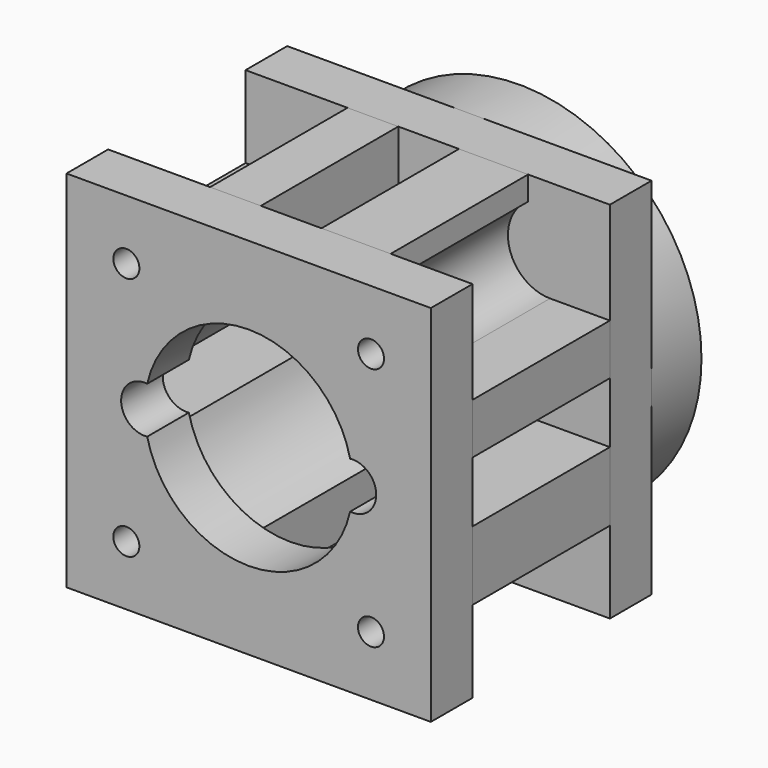
from build123d import *

# Parameters (mm, degrees)
F0_R      = 5
F0_R_2    = 3
F1_DEPTH  = 7
F2_R      = 35
F2_R_2    = 32.1
F3_DEPTH  = 12
F4_W      = 70
F4_H      = 70
F4_R      = 3
F4_R_2    = 11
F5_DEPTH  = 10
F7_R      = 5
F8_DEPTH  = 5
F10_W     = 70
F10_H     = 70
F10_R     = 2.5
F11_DEPTH = 10
F13_DEPTH = 33


with BuildPart() as f1:
    # F0 (on Front) → F1 (new body)
    with BuildSketch(Plane.XZ):
        with Locations((-20, 0)):
            Circle(F0_R)
        with Locations((-20, 0)):
            Circle(F0_R_2, mode=Mode.SUBTRACT)
        with Locations((20, 0)):
            Circle(F0_R)
        with Locations((20, 0)):
            Circle(F0_R_2, mode=Mode.SUBTRACT)
    extrude(amount=-F1_DEPTH)


with BuildPart() as f3:
    # F2 (on Front) → F3 (new body)
    with BuildSketch(Plane.XZ):
        Circle(F2_R)
        Circle(F2_R_2, mode=Mode.SUBTRACT)
    extrude(amount=-F3_DEPTH)


with BuildPart() as f5:
    # F4 (on Front) → F5 (new body)
    with BuildSketch(Plane.XZ):
        Rectangle(F4_W, F4_H)
        with Locations((-20, 0)):
            Circle(F4_R, mode=Mode.SUBTRACT)
        Circle(F4_R_2, mode=Mode.SUBTRACT)
        with Locations((20, 0)):
            Circle(F4_R, mode=Mode.SUBTRACT)
    extrude(amount=F5_DEPTH)

    # F7 (on offset) → F8 (cut)
    with BuildSketch(Plane.XZ.offset(10)):
        with Locations((-20, 0)):
            Circle(F7_R)
        with Locations((20, 0)):
            Circle(F7_R)
    extrude(amount=-F8_DEPTH, mode=Mode.SUBTRACT)


with BuildPart() as f11:
    # F10 (on offset) → F11 (new body)
    with BuildSketch(Plane.XZ.offset(53)):
        Rectangle(F10_W, F10_H)
        with Locations((-23.5, -23.5)):
            Circle(F10_R, mode=Mode.SUBTRACT)
        with Locations((23.5, -23.5)):
            Circle(F10_R, mode=Mode.SUBTRACT)
        with Locations((-23.5, 23.5)):
            Circle(F10_R, mode=Mode.SUBTRACT)
        with BuildLine():
            ThreePointArc((-19.49375, 4.471433), (0, 20), (19.49375, 4.471433))
            ThreePointArc((19.49375, 4.471433), (22.997655, 3.356198), (24.5, 0))
            ThreePointArc((24.5, 0), (22.997655, -3.356198), (19.49375, -4.471433))
            ThreePointArc((19.49375, -4.471433), (0, -20), (-19.49375, -4.471433))
            ThreePointArc((-19.49375, -4.471433), (-24.5, 0), (-19.49375, 4.471433))
        make_face(mode=Mode.SUBTRACT)
        with Locations((23.5, 23.5)):
            Circle(F10_R, mode=Mode.SUBTRACT)
    extrude(amount=-F11_DEPTH)


with BuildPart() as f13:
    # F12 (on offset) → F13 (new body)
    with BuildSketch(Plane.XZ.offset(10)):
        with BuildLine():
            Line((-35, 19.283103), (-35, 6))
            Line((-35, 6), (-20, 6))
            ThreePointArc((-20, 6), (-14.708285, 14.926632), (-5.655774, 20))
            Line((-5.655774, 20), (-5.655774, 35))
            Line((-5.655774, 35), (-15.405774, 35))
            Line((-15.405774, 35), (-15.405774, 23.5))
            ThreePointArc((-15.405774, 23.5), (-21.309853, 15.707712), (-30.409, 19.283103))
            Line((-30.409, 19.283103), (-35, 19.283103))
        make_face()
        with BuildLine():
            Line((-20, -5.655774), (-35, -5.655774))
            Line((-35, -5.655774), (-35, -15.405774))
            Line((-35, -15.405774), (-23.5, -15.405774))
            ThreePointArc((-23.5, -15.405774), (-15.707712, -21.309853), (-19.283103, -30.409))
            Line((-19.283103, -30.409), (-19.283103, -35))
            Line((-19.283103, -35), (-6, -35))
            Line((-6, -35), (-6, -20))
            ThreePointArc((-6, -20), (-14.926632, -14.708285), (-20, -5.655774))
        make_face()
        with BuildLine():
            Line((5.655774, -20), (5.655774, -35))
            Line((5.655774, -35), (15.405774, -35))
            Line((15.405774, -35), (15.405774, -23.5))
            ThreePointArc((15.405774, -23.5), (21.309853, -15.707712), (30.409, -19.283103))
            Line((30.409, -19.283103), (35, -19.283103))
            Line((35, -19.283103), (35, -6))
            Line((35, -6), (20, -6))
            ThreePointArc((20, -6), (14.708285, -14.926632), (5.655774, -20))
        make_face()
        with BuildLine():
            Line((20, 5.655774), (35, 5.655774))
            Line((35, 5.655774), (35, 15.405774))
            Line((35, 15.405774), (23.5, 15.405774))
            ThreePointArc((23.5, 15.405774), (15.707712, 21.309853), (19.283103, 30.409))
            Line((19.283103, 30.409), (19.283103, 35))
            Line((19.283103, 35), (6, 35))
            Line((6, 35), (6, 20))
            ThreePointArc((6, 20), (14.926632, 14.708285), (20, 5.655774))
        make_face()
    extrude(amount=F13_DEPTH)


solid = Compound([f1.part, f3.part, f5.part, f11.part, f13.part])
